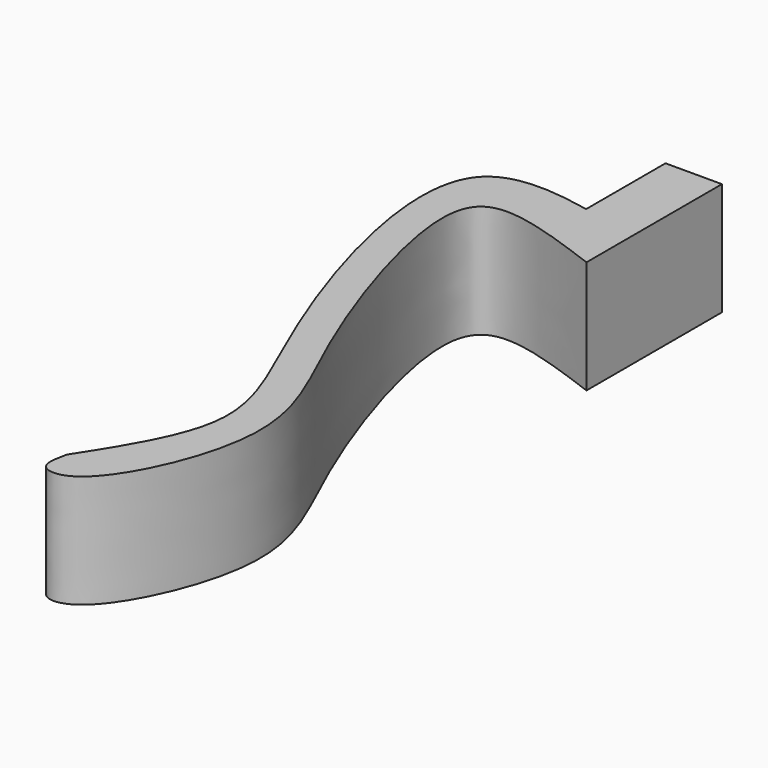
from build123d import *

# Parameters (mm, degrees)
F1_DEPTH = 12.7
F2_W     = 12.7
F2_H     = 12.7
F3_DEPTH = 6.35


with BuildPart() as f1:
    # F0 (on Top) → F1 (new body)
    with BuildSketch(Plane.XY):
        with BuildLine():
            add(Edge.make_bspline(
                [(-12.806464918, -57.1100749075), (-13.0511171053, -58.2458277794), (-13.5554621753, -60.5871571905), (-7.8445014496, -60.9654420686), (0.6916654544, -42.2768781505), (-8.3148797468, -27.6876864149), (-16.8004178311, -2.1338792048), (-13.2621993622, 4.8792293647), (-5.0755576482, 1.8673230015), (0, 0)],
                knots=[0, 0, 0, 0, 0.0742550885, 0.1530752217, 0.3343374095, 0.5222712322, 0.7447890218, 0.8417741881, 1, 1, 1, 1], degree=3))
            Line((0, 0), (0, 6.35))
            add(Edge.make_bspline(
                [(0, 6.35), (-7.5534499519, 8.3103537608), (-25.1935665486, 12.8885093231), (-13.0042988029, -26.7683728201), (-3.4251245492, -42.4972898208), (-9.7955705443, -52.4201744592), (-12.806464918, -57.1100749075)],
                knots=[0, 0, 0, 0, 0.2328977508, 0.5439029192, 0.7844326542, 1, 1, 1, 1], degree=3))
        make_face()
    extrude(amount=F1_DEPTH)

    # F2 (on face) → F3 (join)
    with BuildSketch(Plane.YZ):
        with Locations((12.7, 6.35)):
            Rectangle(F2_W, F2_H)
    extrude(amount=-F3_DEPTH)


solid = f1.part
